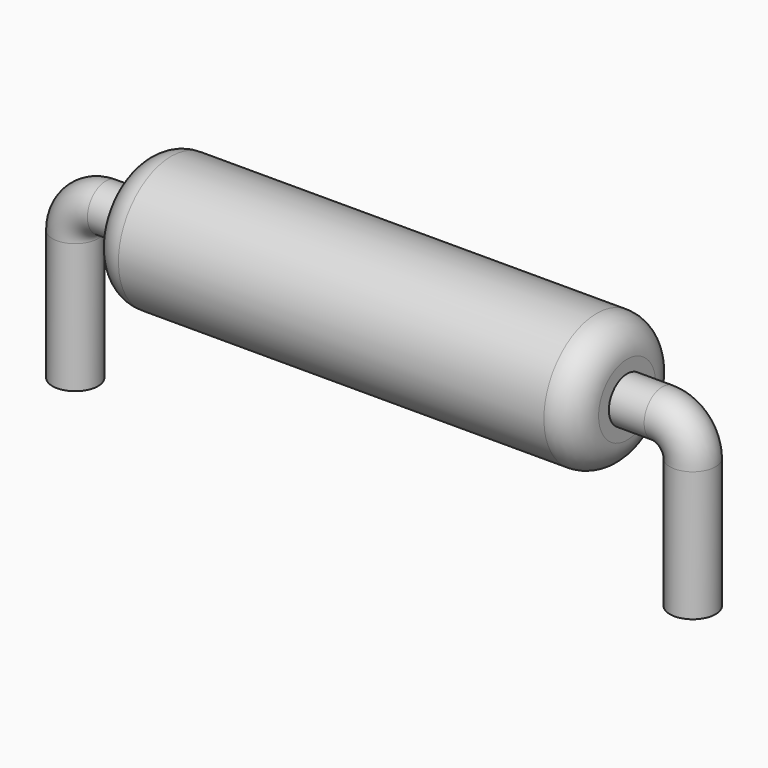
from build123d import *

# Parameters (mm, degrees)
F1_FACE_R = 0.5865084266
F3_R      = 0.375
F5_R      = 0.375


with BuildPart() as f1:
    # F0 (on Front) → F1 (revolve)
    with BuildSketch(Plane.XZ):
        with BuildLine():
            Line((-11.4053217933, 34.4884074648), (-11.4053217933, 33.9018990382))
            Line((-11.4053217933, 33.9018990382), (-3.4053217933, 33.9018990382))
            Line((-3.4053217933, 33.9018990382), (-3.4053217933, 34.4884074648))
            ThreePointArc((-3.4053217933, 34.4884074648), (-3.5517684027, 34.8419608554), (-3.9053217933, 34.9884074648))
            Line((-3.9053217933, 34.9884074648), (-10.9053217933, 34.9884074648))
            ThreePointArc((-10.9053217933, 34.9884074648), (-11.2588751839, 34.8419608554), (-11.4053217933, 34.4884074648))
        make_face()
    revolve(axis=Axis((-7.1268200491, 0, 33.9018990382), (1, 0, 0)))

    # F2: sweep along a path in F0
    with BuildLine(Plane.XZ) as f2_path:
        Line((-11.4053217933, 33.9018990382), (-11.9853217933, 33.9018990382))
    # F1_face (on face) → F2 (sweep, cut)
    with BuildSketch(Plane(origin=(-11.4053217933, 0, 33.9018990382), x_dir=(0, -1, 0), z_dir=(-1, 0, 0))):
        Circle(F1_FACE_R)
    sweep(path=f2_path.line, mode=Mode.SUBTRACT)


with BuildPart() as f4:
    # F4: sweep along a path in F0
    with BuildLine(Plane.XZ) as f4_path:
        Line((-11.4053217933, 33.9018990382), (-11.9853217933, 33.9018990382))
        ThreePointArc((-11.9853217933, 33.9018990382), (-12.3388751839, 33.7554524288), (-12.4853217933, 33.4018990382))
        Line((-12.4853217933, 33.4018990382), (-12.4853217933, 31.2655232847))
    # F3 (on face) → F4 (sweep)
    with BuildSketch(Plane(origin=(-11.4053217933, 0, 0), x_dir=(0, -1, 0), z_dir=(-1, 0, 0))):
        with Locations((0, 33.9018990382)):
            Circle(F3_R)
    sweep(path=f4_path.line)


with BuildPart() as f6:
    # F6: sweep along a path in F0
    with BuildLine(Plane.XZ) as f6_path:
        Line((-3.4053217933, 33.9018990382), (-2.8253217933, 33.9018990382))
        ThreePointArc((-2.8253217933, 33.9018990382), (-2.4717684027, 33.7554524288), (-2.3253217933, 33.4018990382))
        Line((-2.3253217933, 33.4018990382), (-2.3253217933, 31.2655232847))
    # F5 (on face) → F6 (sweep)
    with BuildSketch(Plane.YZ.offset(-3.4053217933)):
        with Locations((0, 33.9018990382)):
            Circle(F5_R)
    sweep(path=f6_path.line)


solid = Compound([f1.part, f4.part, f6.part])
